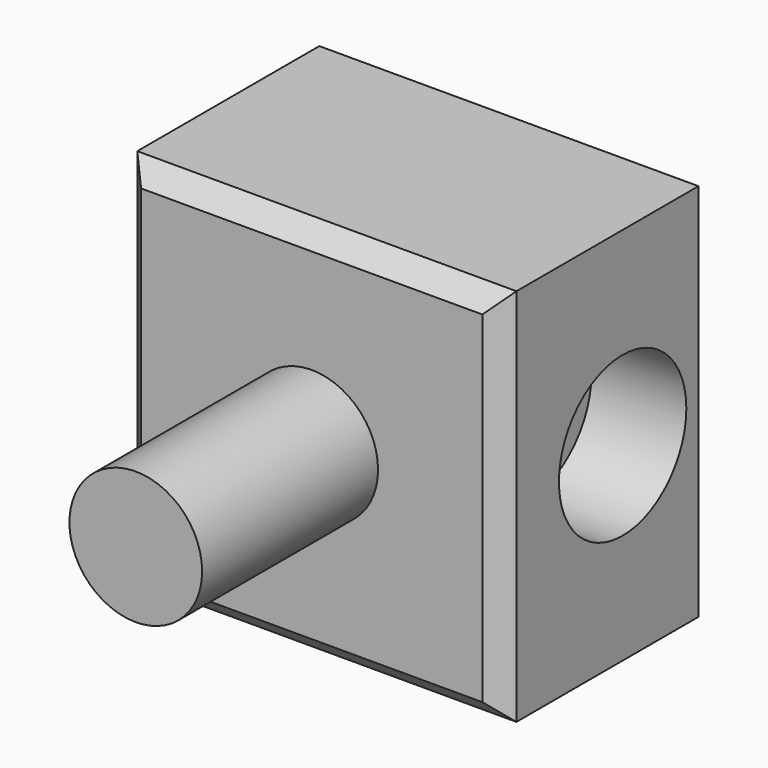
from build123d import *

# Parameters (mm, degrees)
F0_W     = 100
F0_H     = 100
F1_DEPTH = 65
F2_R     = 17.5
F3_DEPTH = 58
F4_SIZE  = 5
F5_R     = 21
F6_DEPTH = 25


with BuildPart() as f1:
    # F0 (on Front) → F1 (new body)
    with BuildSketch(Plane.XZ):
        Rectangle(F0_W, F0_H)
    extrude(amount=F1_DEPTH)

    # F2 (on face) → F3 (join)
    with BuildSketch(Plane.XZ.offset(65)):
        Circle(F2_R)
    extrude(amount=F3_DEPTH)

    # F4
    f4_edges = [f1.edges().sort_by_distance(p)[0] for p in [
        (50, -65, 0),
        (0, -65, -50),
        (0, -65, 50),
        (-50, -65, 0),
    ]]
    chamfer(f4_edges, length=F4_SIZE)

    # F5 (on face) → F6 (cut)
    with BuildSketch(Plane.YZ.offset(50)):
        with Locations((-25, 0)):
            Circle(F5_R)
    extrude(amount=-F6_DEPTH, mode=Mode.SUBTRACT)


solid = f1.part
